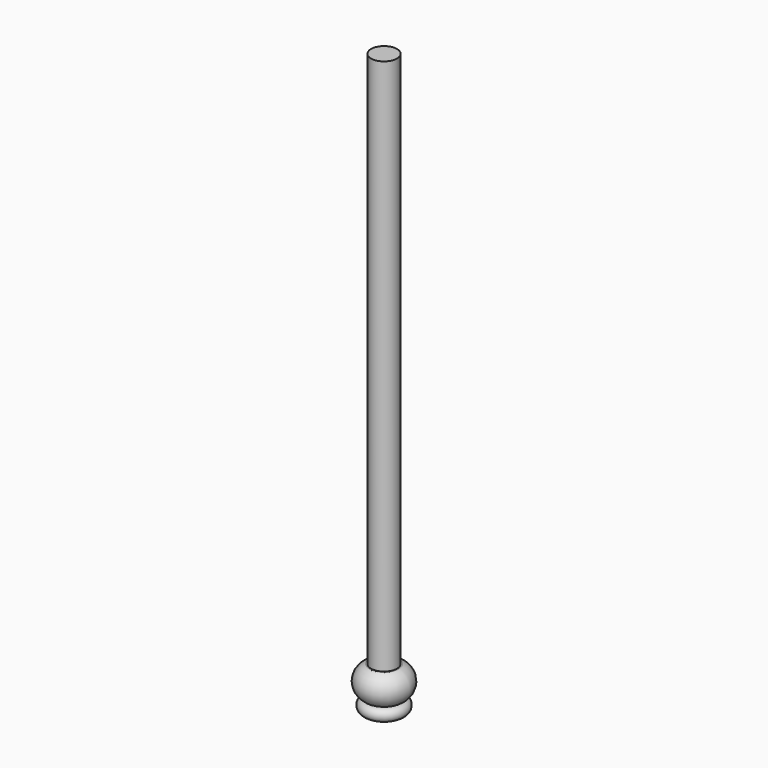
from build123d import *

# Parameters (mm, degrees)
F0_R     = 6.35
F1_DEPTH = 262.636
F0_R_2   = 12.7
F2_DEPTH = 20.574


with BuildPart() as f1:
    # F0 (on Top) → F1 (new body)
    with BuildSketch(Plane.XY):
        Circle(F0_R)
    extrude(amount=F1_DEPTH)

    # F0 (on Top) → F2 (join)
    with BuildSketch(Plane.XY):
        Circle(F0_R_2)
        Circle(F0_R, mode=Mode.SUBTRACT)
        Circle(F0_R)
    extrude(amount=-F2_DEPTH)

    # F3 (on Front) → F4 (revolve, cut)
    with BuildSketch(Plane.XZ):
        with BuildLine():
            Line((7.073207, -20.581745), (7.073207, -25.931608))
            Line((7.073207, -25.931608), (17.550027, -25.931608))
            Line((17.550027, -25.931608), (17.550027, 2.823916))
            Line((17.550027, 2.823916), (7.073207, 2.823916))
            Line((7.073207, 2.823916), (7.073207, 0))
            ThreePointArc((7.073207, 0), (12.381247, -7.393028), (7.073207, -14.786056))
            ThreePointArc((7.073207, -14.786056), (10.592482, -17.6839), (7.073207, -20.581745))
        make_face()
    revolve(axis=Axis((0, 0, -11.275207), (0, 0, -1)), mode=Mode.SUBTRACT)


solid = f1.part
